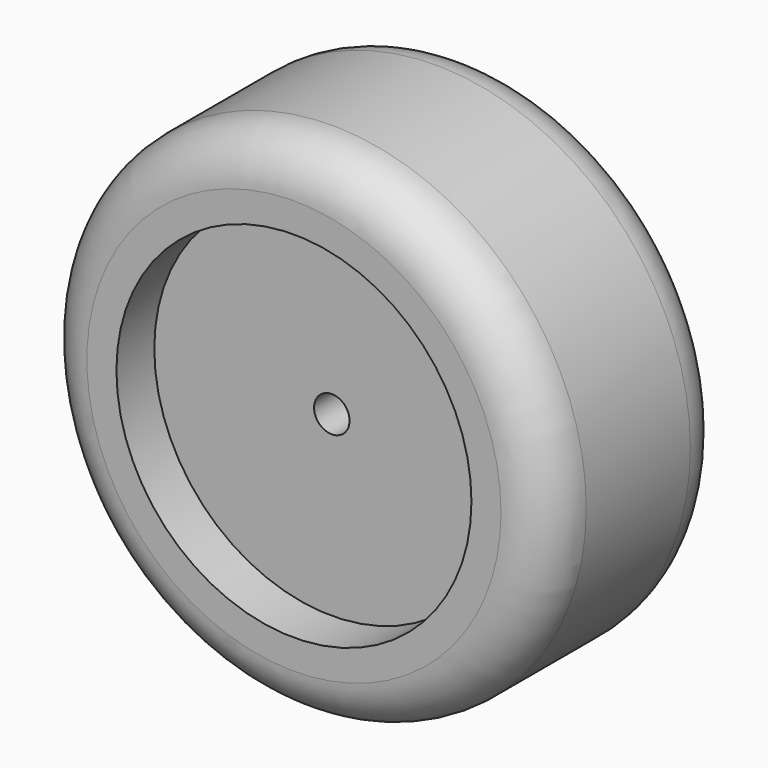
from build123d import *

# Parameters (mm, degrees)
F0_R     = 21.5
F1_DEPTH = 19
F2_R     = 4
F3_R     = 15
F4_DEPTH = 4
F5_R     = 15
F6_DEPTH = 4
F7_R     = 1.5
F8_DEPTH = 15.001


with BuildPart() as f1:
    # F0 (on Front) → F1 (new body)
    with BuildSketch(Plane.XZ):
        Circle(F0_R)
    extrude(amount=F1_DEPTH)

    # F2
    f2_edges = [f1.edges().sort_by_distance(p)[0] for p in [
        (-21.5, -19, 0),
        (-21.5, 0, 0),
    ]]
    fillet(f2_edges, radius=F2_R)

    # F3 (on face) → F4 (cut)
    with BuildSketch(Plane(origin=(0, 0, 0), x_dir=(-1, 0, 0), z_dir=(0, 1, 0))):
        Circle(F3_R)
    extrude(amount=-F4_DEPTH, mode=Mode.SUBTRACT)

    # F5 (on face) → F6 (cut)
    with BuildSketch(Plane.XZ.offset(19)):
        Circle(F5_R)
    extrude(amount=-F6_DEPTH, mode=Mode.SUBTRACT)

    # F7 (on face) → F8 (cut, through all)
    with BuildSketch(Plane.XZ.offset(15)):
        Circle(F7_R)
    extrude(amount=-F8_DEPTH, mode=Mode.SUBTRACT)


solid = f1.part
